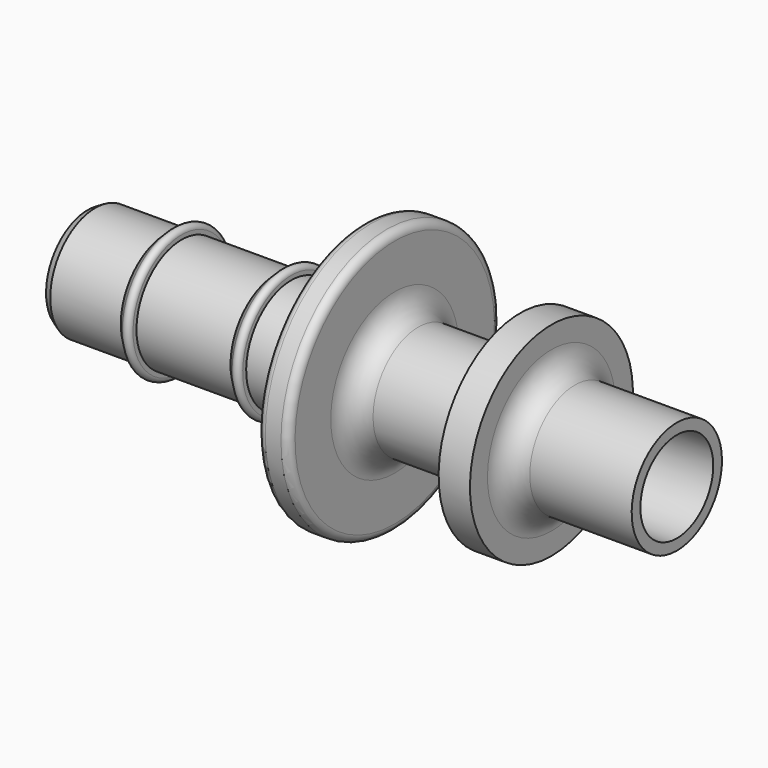
from build123d import *


with BuildPart() as f1:
    # F0 (on Front) → F1 (revolve)
    with BuildSketch(Plane.XZ):
        with BuildLine():
            Line((18.8, -2.90631), (-18.8, -2.25))
            Line((-18.8, -2.25), (-18.8, -3.311325))
            Line((-18.8, -3.311325), (-18.3, -3.6))
            Line((-18.3, -3.6), (-13.8, -3.6))
            Line((-13.8, -3.6), (-13.312132, -4.087868))
            ThreePointArc((-13.312132, -4.087868), (-12.985195, -4.1529), (-12.8, -3.875736))
            Line((-12.8, -3.875736), (-12.8, -3.6))
            Line((-12.8, -3.6), (-6.8, -3.6))
            Line((-6.8, -3.6), (-6.312132, -4.087868))
            ThreePointArc((-6.312132, -4.087868), (-5.985195, -4.1529), (-5.8, -3.875736))
            Line((-5.8, -3.875736), (-5.8, -3.6))
            Line((-5.8, -3.6), (-2.7, -3.6))
            ThreePointArc((-2.7, -3.6), (-1.63934, -4.03934), (-1.2, -5.1))
            Line((-1.2, -5.1), (-1.2, -7.95))
            ThreePointArc((-1.2, -7.95), (-1.053553, -8.303553), (-0.7, -8.45))
            Line((-0.7, -8.45), (0.3, -8.45))
            ThreePointArc((0.3, -8.45), (0.653553, -8.303553), (0.8, -7.95))
            Line((0.8, -7.95), (0.8, -5.1))
            ThreePointArc((0.8, -5.1), (1.23934, -4.03934), (2.3, -3.6))
            Line((2.3, -3.6), (7.3, -3.6))
            ThreePointArc((7.3, -3.6), (8.36066, -4.03934), (8.8, -5.1))
            Line((8.8, -5.1), (8.8, -6.5))
            Line((8.8, -6.5), (10.8, -6.5))
            Line((10.8, -6.5), (10.8, -5.1))
            ThreePointArc((10.8, -5.1), (11.23934, -4.03934), (12.3, -3.6))
            Line((12.3, -3.6), (18.8, -3.6))
            Line((18.8, -3.6), (18.8, -2.90631))
        make_face()
    revolve(axis=Axis((-0.050494, 0, 0), (1, 0, 0)))


solid = f1.part
